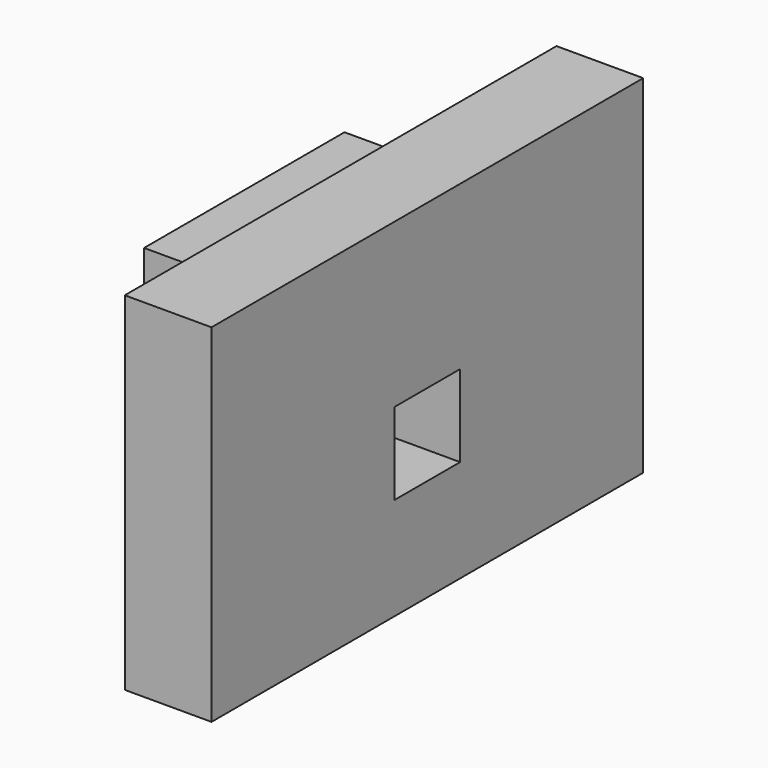
from build123d import *

# Parameters (mm, degrees)
SKETCH132_W     = 11.2
SKETCH132_H     = 7.21
PAD065_DEPTH    = 1.8
SKETCH135_W     = 1.7
SKETCH135_H     = 1.7
POCKET058_DEPTH = 1.6
SKETCH136_W     = 5.2
SKETCH136_H     = 5.2
PAD066_DEPTH    = 2


with BuildPart() as part:
    # Sketch132 (on YZ_Plane of Origin) → Pad065 (new body)
    with BuildSketch(Plane.YZ):
        with Locations((17.348932, 9.405)):
            Rectangle(SKETCH132_W, SKETCH132_H)
    extrude(amount=PAD065_DEPTH)

    # Sketch135 (on YZ_Plane of Origin) → Pocket058 (cut)
    with BuildSketch(Plane.YZ.offset(1.8)):
        with Locations((17.348932, 8.775)):
            Rectangle(SKETCH135_W, SKETCH135_H)
    extrude(amount=-POCKET058_DEPTH, mode=Mode.SUBTRACT)

    # Sketch136 (on YZ_Plane of Origin) → Pad066 (join)
    with BuildSketch(Plane.YZ):
        with Locations((17.348932, 9.405)):
            Rectangle(SKETCH136_W, SKETCH136_H)
    extrude(amount=-PAD066_DEPTH)


with BuildPart() as part_1:
    # Body019 placement: moved
    add(part.part.moved(Location((-27.48, 0, 0))))


solid = part_1.part
